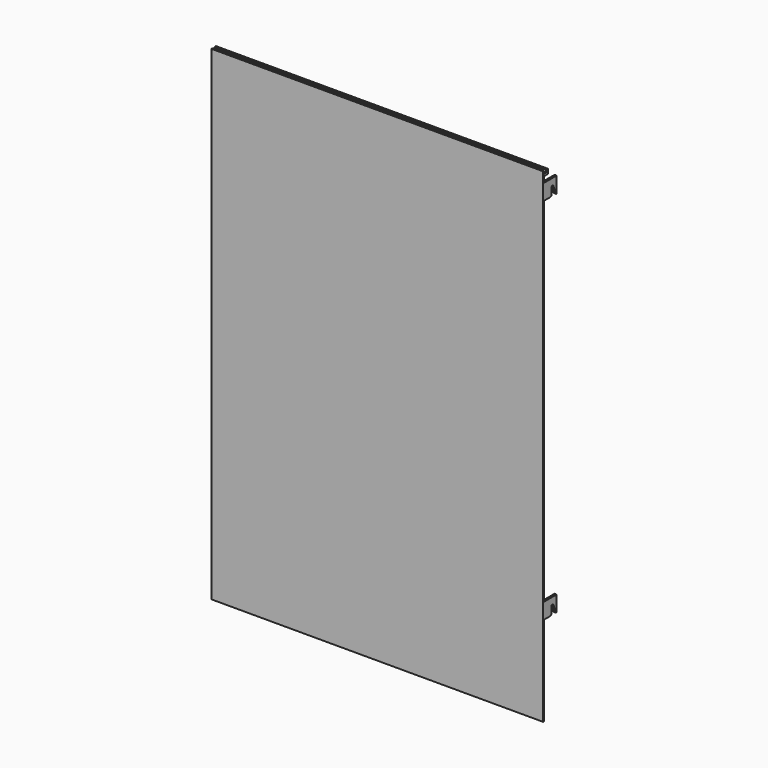
from build123d import *

# Parameters (mm, degrees)
F0_W     = 630
F0_H     = 911
F0_H_2   = 4
F0_H_3   = 5
F1_DEPTH = 2
F4_DEPTH = 4
F7_DEPTH = 9
F8_W     = 630
F8_H     = 4
F9_DEPTH = 5


with BuildPart() as f1:
    # F0 (on Front) → F1 (new body)
    with BuildSketch(Plane.XZ):
        with Locations((0, -4.5)):
            Rectangle(F0_W, F0_H)
        with Locations((0, 453)):
            Rectangle(F0_W, F0_H_2)
        with Locations((0, 457.5)):
            Rectangle(F0_W, F0_H_3)
    extrude(amount=F1_DEPTH)

    # F6: F4, F5_1 across plane


with BuildPart() as f4:
    # F3 (on offset) → F4 (new body)
    with BuildSketch(Plane.YZ.offset(-315)):
        with BuildLine():
            Line((0, 440), (0, 410))
            Line((0, 410), (14.5, 410))
            ThreePointArc((14.5, 410), (16.6213203436, 410.8786796564), (17.5, 413))
            Line((17.5, 413), (17.5, 425))
            ThreePointArc((17.5, 425), (19.5741329805, 427.4634604283), (22.3549098254, 425.8392852402))
            Line((22.3549098254, 425.8392852402), (27.7746731609, 410.6322336697))
            ThreePointArc((27.7746731609, 410.6322336697), (28.122676008, 410.1739557831), (28.6711867084, 410))
            Line((28.6711867084, 410), (29.0482506613, 410))
            ThreePointArc((29.0482506613, 410), (29.7212390727, 410.2787609273), (30, 410.9517493387))
            Line((30, 410.9517493387), (30, 440))
            Line((30, 440), (0, 440))
        make_face()
    extrude(amount=F4_DEPTH)


with BuildPart() as f5_1:
    # F5: copy of F4
    add(f4.part.moved(Location((0, 0, -700))))


with BuildPart() as f1_1:
    add(f1.part)
    add(f4.part.mirror(Plane.YZ))
    add(f5_1.part.mirror(Plane.YZ))

    # F0 (on Front) → F7 (join)
    with BuildSketch(Plane.XZ):
        with Locations((0, 453)):
            Rectangle(F0_W, F0_H_2)
    extrude(amount=-F7_DEPTH)


    add(f4.part)  # F9 merges F4

    add(f5_1.part)  # F9 merges F5_1
    # F8 (on face) → F9 (join)
    with BuildSketch(Plane.XY.offset(455)):
        with Locations((0, 7)):
            Rectangle(F8_W, F8_H)
    extrude(amount=F9_DEPTH)


solid = f1_1.part
